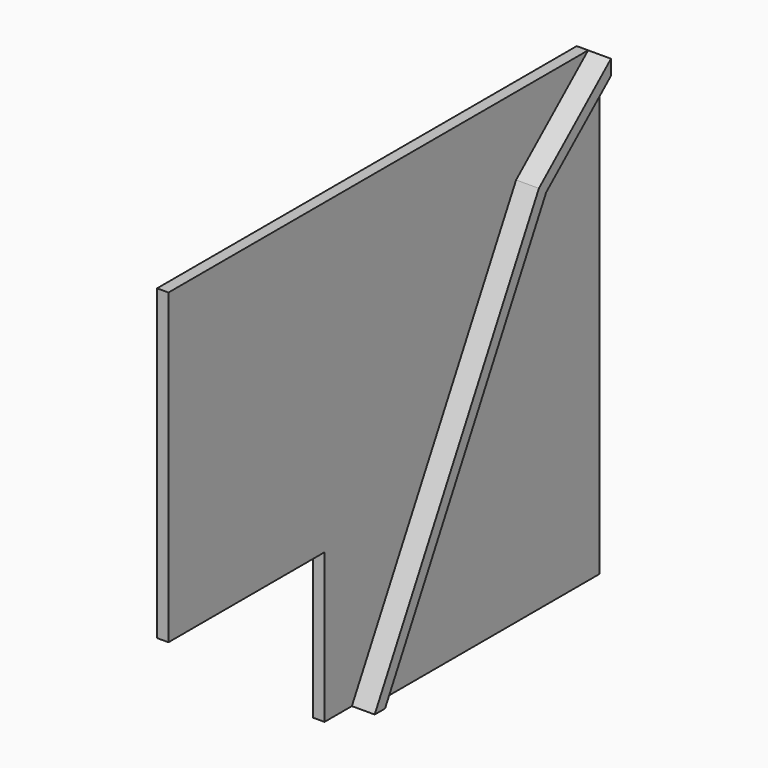
from build123d import *

# Parameters (mm, degrees)
F1_DEPTH = 1
F2_DEPTH = 3
F3_DEPTH = 2


with BuildPart() as f1:
    # F0 (on Right) → F1 (new body)
    with BuildSketch(Plane.YZ):
        Polygon((-91.161479, 53.232064), (-137.161479, 53.232064), (-137.161479, 26.232064), (-127.161479, 26.232064), (-120.057479, 26.232064), (-120.057479, 13.132064), (-117.057479, 13.132064), (-99.057374, 46.433675), align=None)
    extrude(amount=F1_DEPTH)

    # F0 (on Right) → F2 (join)
    with BuildSketch(Plane.YZ):
        Polygon((-91.161479, 51.912471), (-91.161479, 53.232064), (-99.057374, 46.433675), (-117.057479, 13.132064), (-115.920747, 13.132064), (-98.265271, 45.796085), align=None)
    extrude(amount=F2_DEPTH)

    # F0 (on Right) → F3 (join)
    with BuildSketch(Plane.YZ):
        Polygon((-91.161479, 26.232064), (-91.161479, 51.912471), (-98.265271, 45.796085), (-115.920747, 13.132064), (-91.161479, 13.132064), align=None)
    extrude(amount=F3_DEPTH)


solid = f1.part
